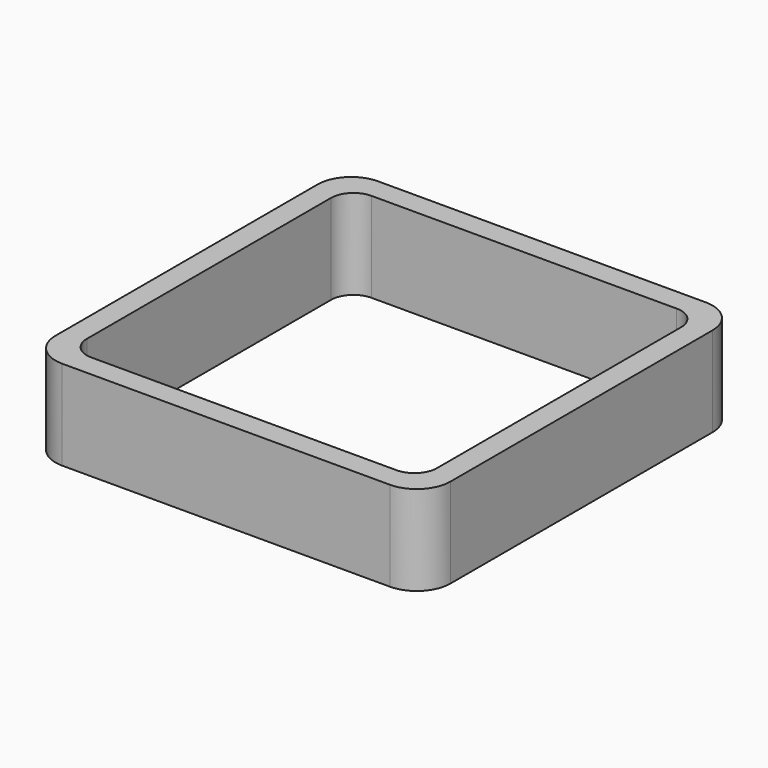
from build123d import *

# Parameters (mm, degrees)
EXTRUDE_DEPTH = 50


with BuildPart() as part:
    # Sketch → Extrude (new body)
    with BuildSketch(Plane.XY):
        with BuildLine():
            Line((-91.25, 110), (91.25, 110))
            ThreePointArc((110, 91.25), (104.508252, 104.508252), (91.25, 110))
            Line((110, 91.25), (110, -91.25))
            ThreePointArc((91.25, -110), (104.508252, -104.508252), (110, -91.25))
            Line((91.25, -110), (-91.25, -110))
            ThreePointArc((-110, -91.25), (-104.508252, -104.508252), (-91.25, -110))
            Line((-110, -91.25), (-110, 91.25))
            ThreePointArc((-91.25, 110), (-104.508252, 104.508252), (-110, 91.25))
        make_face()
        with BuildLine():
            Line((-85, 97.5), (85, 97.5))
            ThreePointArc((97.5, 85), (93.838835, 93.838835), (85, 97.5))
            Line((97.5, 85), (97.5, -85))
            ThreePointArc((85, -97.5), (93.838835, -93.838835), (97.5, -85))
            Line((85, -97.5), (-85, -97.5))
            ThreePointArc((-97.5, -85), (-93.838835, -93.838835), (-85, -97.5))
            Line((-97.5, -85), (-97.5, 85))
            ThreePointArc((-85, 97.5), (-93.838835, 93.838835), (-97.5, 85))
        make_face(mode=Mode.SUBTRACT)
    extrude(amount=EXTRUDE_DEPTH)


solid = part.part
